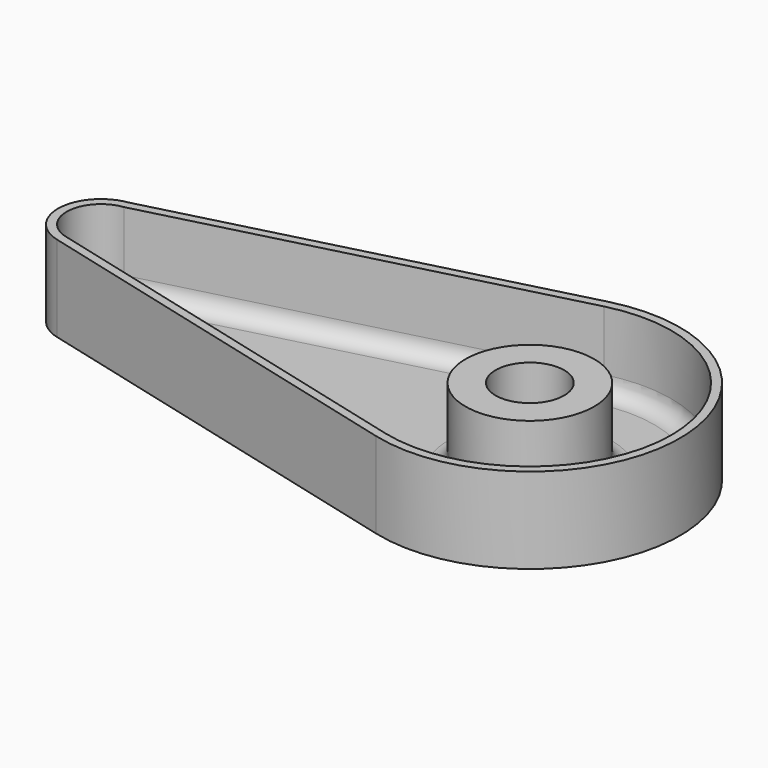
from build123d import *

# Parameters (mm, degrees)
F1_DEPTH = 25.4
F2_T     = -2.54
F3_R     = 19.05
F3_R_2   = 10.16
F4_DEPTH = 22.86
F5_R     = 5.08


with BuildPart() as f1:
    # F0 (on Top) → F1 (new body)
    with BuildSketch(Plane.XY):
        with BuildLine():
            Line((-130.175, -12.2967221242), (-11.1125, -43.0385274347))
            ThreePointArc((-11.1125, -43.0385274347), (44.4499974135, 0.0151638522), (-11.1418620852, 43.0309354915))
            Line((-11.1418620852, 43.0309354915), (-128.75155606, 12.578634718))
            ThreePointArc((-128.75155606, 12.578634718), (-139.6792579893, 0.7255458912), (-130.175, -12.2967221242))
        make_face()
    extrude(amount=F1_DEPTH)

    # F2
    f2_openings = [f1.faces().sort_by_distance(p)[0] for p in [
        (-33.44475, -0.010622, 25.4),
    ]]
    offset(amount=F2_T, openings=f2_openings, kind=Kind.INTERSECTION)

    # F3 (on face) → F4 (join, through all)
    with BuildSketch(Plane.XY.offset(2.54)):
        Circle(F3_R)
        Circle(F3_R_2, mode=Mode.SUBTRACT)
    extrude(amount=F4_DEPTH)

    # F5
    f5_edges = [f1.edges().sort_by_distance(p)[0] for p in [
        (-19.05, 0, 2.54),
        (-69.384764, 25.326524, 2.54),
        (41.909998, 0.014297, 2.54),
        (-137.139228, 0.649358, 2.54),
        (-70.00875, -25.20828, 2.54),
    ]]
    fillet(f5_edges, radius=F5_R)


solid = f1.part
